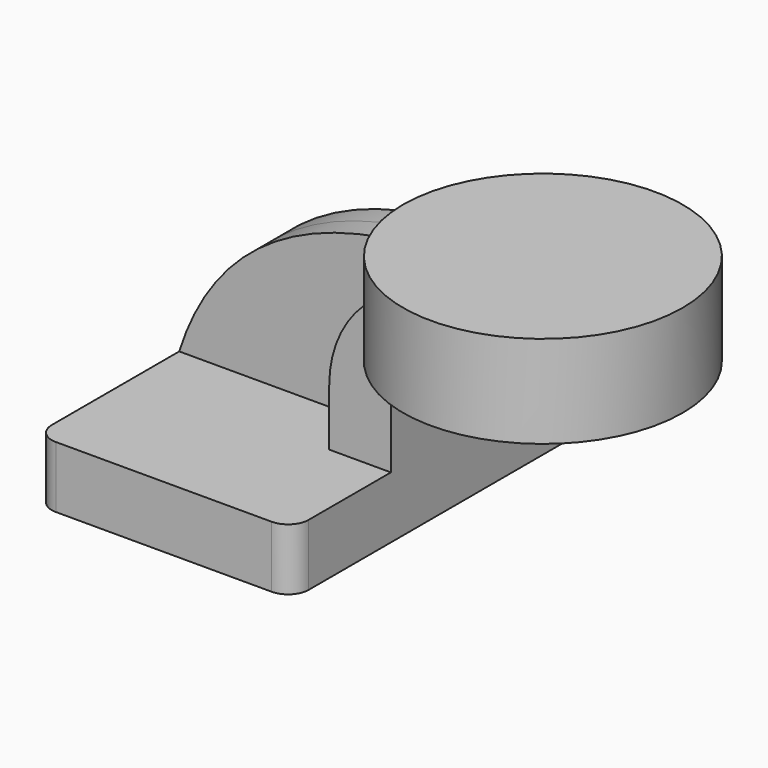
from build123d import *

# Parameters (mm, degrees)
F1_DEPTH = 63.5
F2_DEPTH = 25.4
F3_DEPTH = 7.9375
F0_W     = 43.2026712656
F0_H     = 28.575
F5_R     = 6.35


with BuildPart() as f1:
    # F0 (on Front) → F1 (new body, symmetric)
    with BuildSketch(Plane.XZ):
        Polygon((39.6875, -9.525), (39.6875, 9.525), (20.6375, 9.525), (-39.6875, 9.525), (-39.6875, -9.525), align=None)
    extrude(amount=F1_DEPTH, both=True)

    # F0 (on Front) → F2 (join, symmetric)
    with BuildSketch(Plane.XZ):
        with BuildLine():
            Line((20.6375, 9.525), (39.6875, 9.525))
            Line((39.6875, 9.525), (39.6875, 27.0256))
            ThreePointArc((39.6875, 27.0256), (44.3371798487, 38.2509201513), (55.5625, 42.9006))
            Line((55.5625, 42.9006), (58.7375, 42.9006))
            Line((58.7375, 42.9006), (58.7375, 61.9506))
            Line((58.7375, 61.9506), (55.5625, 61.9506))
            ThreePointArc((55.5625, 61.9506), (30.8667956671, 51.7213043329), (20.6375, 27.0256))
            Line((20.6375, 27.0256), (20.6375, 9.525))
        make_face()
        Polygon((58.7375, 66.675), (58.7375, 61.9506), (58.7375, 42.9006), (58.7375, 38.1), (66.3348287344, 38.1), (66.3348287344, 66.675), align=None)
    extrude(amount=F2_DEPTH, both=True)

    # F0 (on Front) → F3 (join, symmetric)
    with BuildSketch(Plane.XZ):
        with BuildLine():
            Line((-39.6875, 9.525), (20.6375, 9.525))
            Line((20.6375, 9.525), (20.6375, 27.0256))
            ThreePointArc((20.6375, 27.0256), (30.8667956671, 51.7213043329), (55.5625, 61.9506))
            Line((55.5625, 61.9506), (58.7375, 61.9506))
            add(Edge.make_bspline(
                [(-39.6875, 9.525), (-25.5478955805, 54.2332231998), (16.1354914308, 65.4384344816), (58.7375, 61.9506)],
                knots=[0, 0, 0, 0, 111.5164748383, 111.5164748383, 111.5164748383, 111.5164748383], degree=3))
        make_face()
    extrude(amount=F3_DEPTH, both=True)

    # F0 (on Front) → F4 (revolve)
    with BuildSketch(Plane.XZ):
        with Locations((87.9361643672, 52.3875)):
            Rectangle(F0_W, F0_H)
    revolve(axis=Axis((66.3348287344, 0, 52.3875), (0, 0, 1)))

    # F5
    f5_edges = [f1.edges().sort_by_distance(p)[0] for p in [
        (39.6875, -63.5, 0),
        (-39.6875, -63.5, 0),
        (39.6875, 63.5, 0),
        (-39.6875, 63.5, 0),
    ]]
    fillet(f5_edges, radius=F5_R)


solid = f1.part
